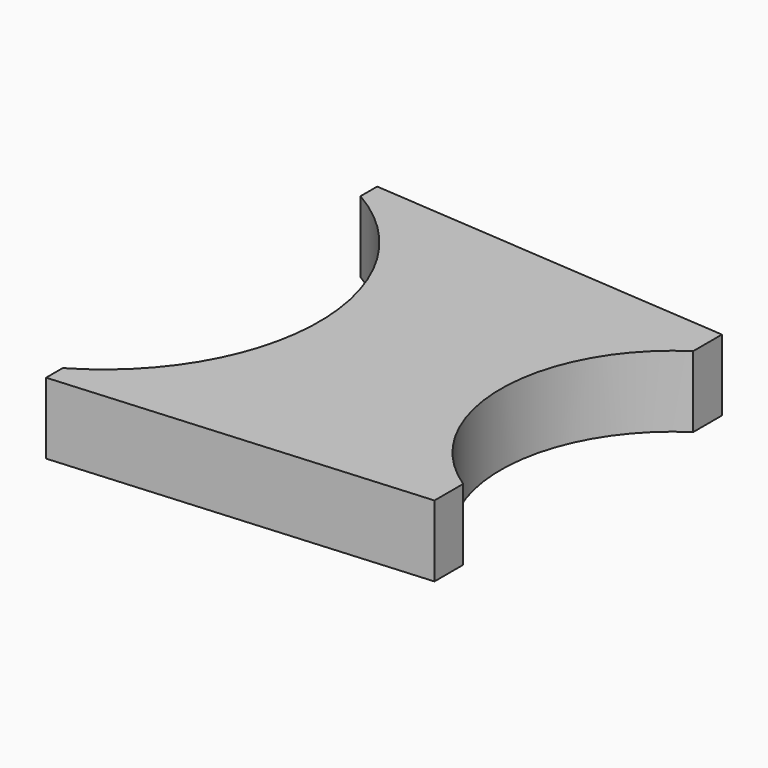
from build123d import *

# Parameters (mm, degrees)
PAD_DEPTH = 10


with BuildPart() as part:
    # Sketch → Pad (new body)
    with BuildSketch(Plane.XY):
        with BuildLine():
            ThreePointArc((15.075, -26.110666), (30.15, 0), (15.075, 26.110666))
            Line((15.075, 29.028831), (15.075, 26.110666))
            Line((66.494071, 25.204654), (15.075, 29.028831))
            Line((66.494071, 25.204654), (66.494071, 20.16834))
            ThreePointArc((66.494071, 20.16834), (55.627916, 0), (66.494071, -20.16834))
            Line((66.494071, -20.16834), (66.494071, -25.204654))
            Line((15.075, -29.028831), (66.494071, -25.204654))
            Line((15.075, -26.110666), (15.075, -29.028831))
        make_face()
    extrude(amount=PAD_DEPTH)


solid = part.part
